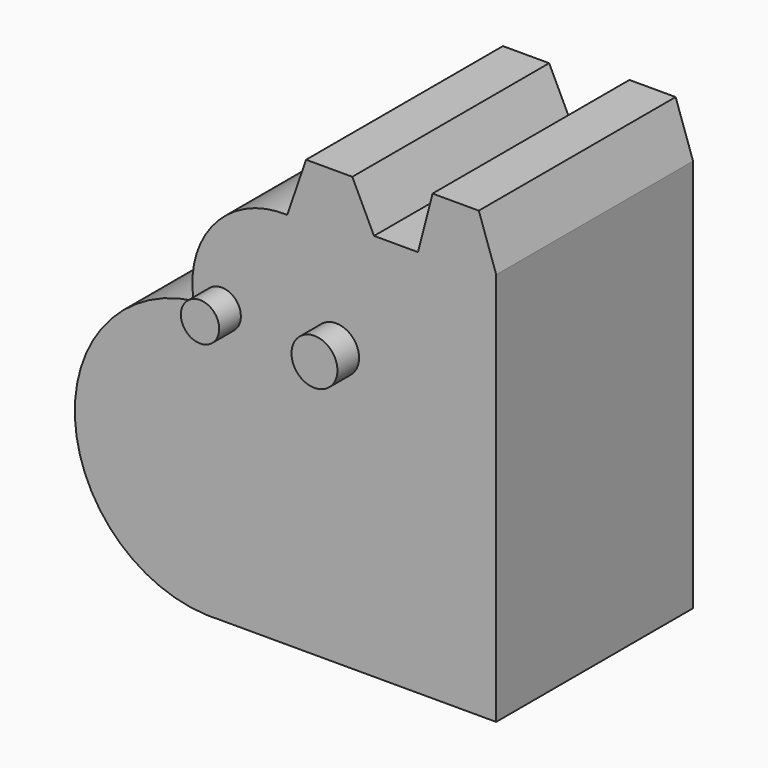
from build123d import *

# Parameters (mm, degrees)
F1_DEPTH = 25.4
F2_R     = 1.978081
F2_R_2   = 2.370106
F3_DEPTH = 28.194


with BuildPart() as f1:
    # F0 (on Front) → F1 (new body)
    with BuildSketch(Plane.XZ):
        with BuildLine():
            ThreePointArc((-13.911397, -14.113608), (-4.315888, -9.772678), (-0.390044, 0))
            ThreePointArc((-0.390044, 0), (-5.211487, 10.628955), (-16.384671, 14.002522))
            ThreePointArc((-16.384671, 14.002522), (-28.628975, -0.633849), (-15.121849, -14.113608))
            Line((-15.121849, -14.113608), (-13.911397, -14.113608))
        make_face()
        with BuildLine():
            ThreePointArc((-16.384671, 14.002522), (-5.211487, 10.628955), (-0.390044, 0))
            ThreePointArc((-0.390044, 0), (-4.315888, -9.772678), (-13.911397, -14.113608))
            Line((-13.911397, -14.113608), (14.850151, -14.113608))
            Line((14.850151, -14.113608), (14.850151, 6.206392))
            Line((14.850151, 6.206392), (14.850151, 26.526392))
            Line((14.850151, 26.526392), (13.055225, 31.761205))
            Line((13.055225, 31.761205), (8.281295, 31.761205))
            Line((8.281295, 31.761205), (6.779921, 25.951087))
            Line((6.779921, 25.951087), (2.240821, 25.951087))
            Line((2.240821, 25.951087), (0, 30.592079))
            Line((0, 30.592079), (-4.773923, 30.592079))
            Line((-4.773923, 30.592079), (-6.722463, 24.941313))
            ThreePointArc((-6.722463, 24.941313), (-14.158879, 21.773184), (-16.384671, 14.002522))
        make_face()
        with BuildLine():
            ThreePointArc((-15.121849, -14.113608), (-14.516623, -14.126579), (-13.911397, -14.113608))
            Line((-13.911397, -14.113608), (-15.121849, -14.113608))
        make_face()
    extrude(amount=F1_DEPTH)

    # F2 (on Front) → F3 (join)
    with BuildSketch(Plane.XZ):
        with Locations((-13.48262, 14.171513)):
            Circle(F2_R)
        with Locations((-1.673026, 14.368339)):
            Circle(F2_R_2)
    extrude(amount=F3_DEPTH)


solid = f1.part
